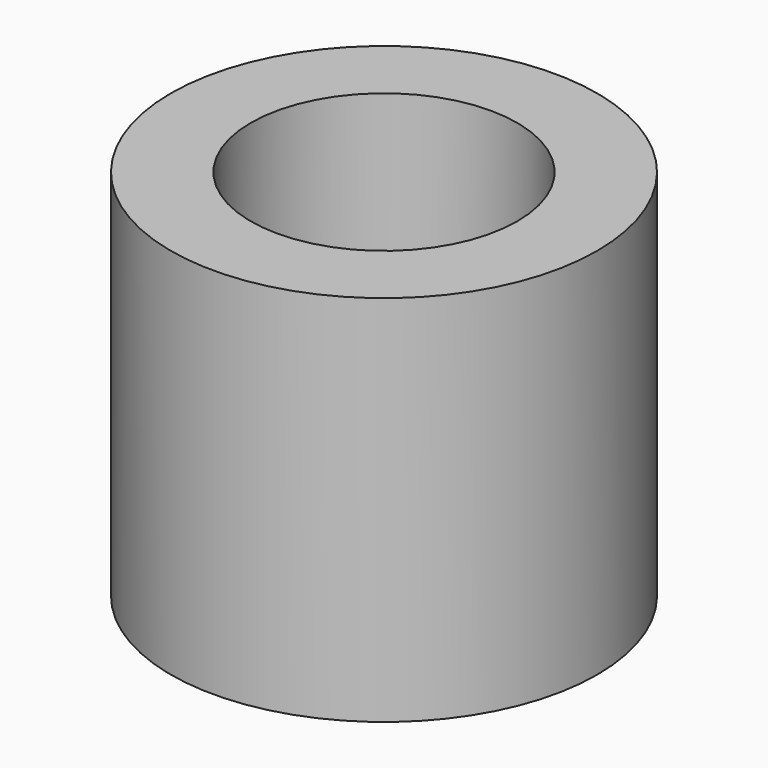
from build123d import *

# Parameters (mm, degrees)
SKETCH_R   = 4
SKETCH_R_2 = 2.5
PAD_DEPTH  = 7


with BuildPart() as part:
    # Sketch → Pad (new body)
    with BuildSketch(Plane.XY):
        Circle(SKETCH_R)
        Circle(SKETCH_R_2, mode=Mode.SUBTRACT)
    extrude(amount=PAD_DEPTH)


solid = part.part
